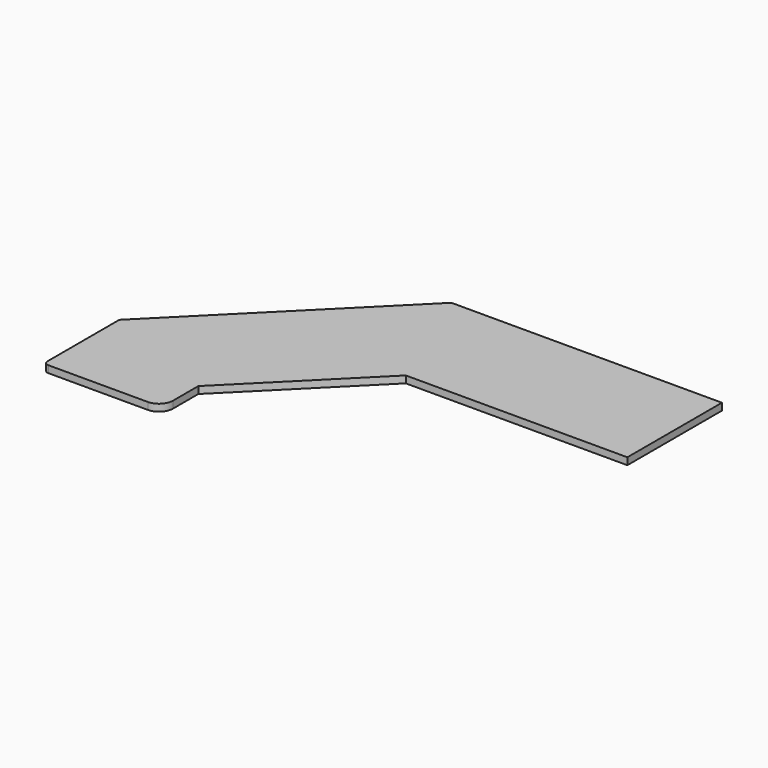
from build123d import *

# Parameters (mm, degrees)
F1_DEPTH = 38.1
F2_R     = 76.2
F3_R     = 25.4


with BuildPart() as f1:
    # F0 (on Top) → F1 (new body)
    with BuildSketch(Plane.XY):
        Polygon((0, -642.9375), (0, 0), (-1471.7014, 0), (-2475.370745, -1003.669345), (-2475.370745, -1518.108245), (-1832.433245, -1518.108245), (-1832.433245, -1269.982777), (-1205.387968, -642.9375), align=None)
    extrude(amount=F1_DEPTH)

    # F2
    f2_edges = [f1.edges().sort_by_distance(p)[0] for p in [
        (-1832.433245, -1518.108245, 19.05),
    ]]
    fillet(f2_edges, radius=F2_R)

    # F3
    f3_edges = [f1.edges().sort_by_distance(p)[0] for p in [
        (-2475.370745, -1518.108245, 19.05),
    ]]
    fillet(f3_edges, radius=F3_R)


solid = f1.part
